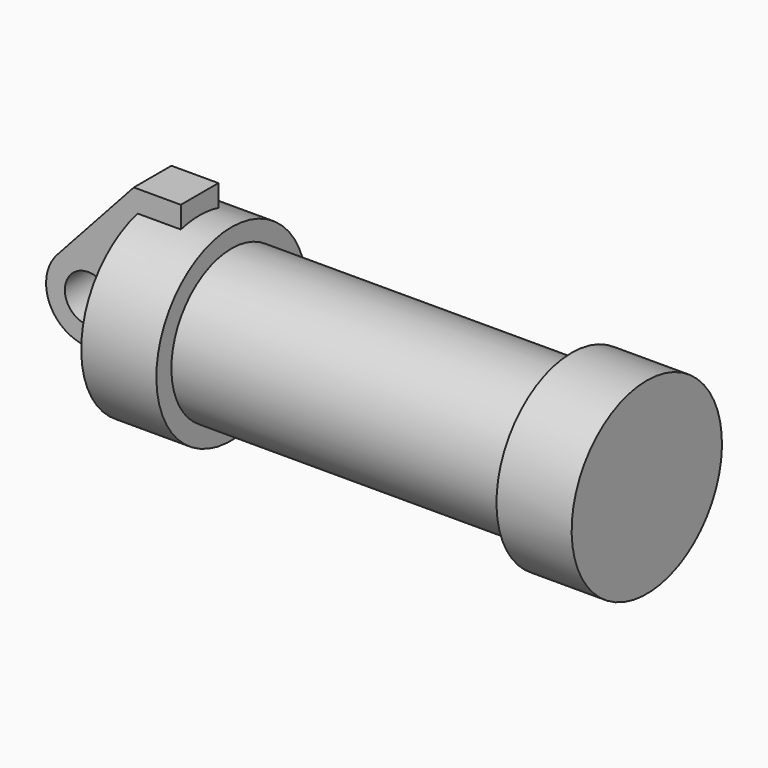
from build123d import *

# Parameters (mm, degrees)
F0_W     = 5.842
F0_H     = 12.7
F0_R     = 3.175
F2_DEPTH = 3.175


with BuildPart() as f1:
    # F0 (on Front) → F1 (revolve)
    with BuildSketch(Plane.XZ):
        Polygon((5.842, 12.7), (5.842, 0), (66.294, 0), (66.294, 12.7), (56.134, 12.7), (56.134, 10.16), (10.16, 10.16), (10.16, 12.7), align=None)
        with Locations((2.921, 6.35)):
            Rectangle(F0_W, F0_H)
    revolve(axis=Axis((33.147, 0, 0), (-1, 0, 0)))

    # F0 (on Front) → F2 (join, symmetric)
    with BuildSketch(Plane.XZ):
        with BuildLine():
            Line((-0.9398, 0), (0, 0))
            Line((0, 0), (0, 12.7))
            Line((0, 12.7), (5.842, 12.7))
            Line((5.842, 12.7), (5.842, 15.24))
            Line((5.842, 15.24), (-0.508, 15.24))
            Line((-0.508, 15.24), (-10.88063, 3.847543))
            ThreePointArc((-10.88063, 3.847543), (-4.591961, 5.329721), (-0.9398, 0))
        make_face()
        with BuildLine():
            ThreePointArc((-8.182663, -5.506983), (-3.195791, -4.549339), (-0.9398, 0))
            ThreePointArc((-0.9398, 0), (-4.591961, 5.329721), (-10.88063, 3.847543))
            ThreePointArc((-10.88063, 3.847543), (-12.145978, -1.583727), (-8.182663, -5.506983))
        make_face()
        with Locations((-6.6548, 0)):
            Circle(F0_R, mode=Mode.SUBTRACT)
        with BuildLine():
            Line((5.842, 0), (0, 0))
            Line((0, 0), (-0.9398, 0))
            ThreePointArc((-0.9398, 0), (-3.195791, -4.549339), (-8.182663, -5.506983))
            Line((-8.182663, -5.506983), (5.842, -9.398))
            Line((5.842, -9.398), (5.842, 0))
        make_face()
        with Locations((2.921, 6.35)):
            Rectangle(F0_W, F0_H)
    extrude(amount=F2_DEPTH, both=True)


solid = f1.part
